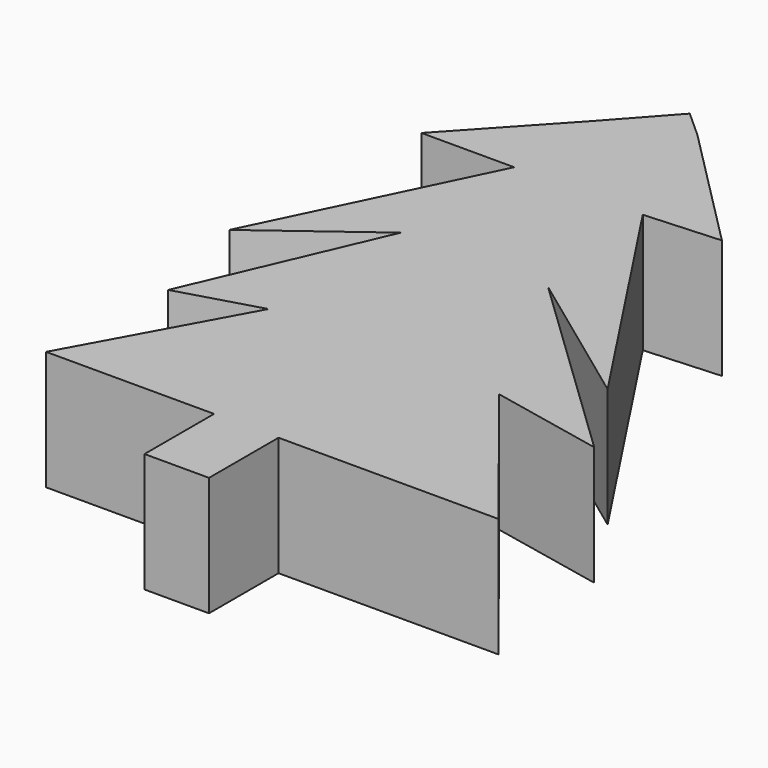
from build123d import *

# Parameters (mm, degrees)
F1_DEPTH = 25.4


with BuildPart() as f1:
    # F0 (on Top) → F1 (new body)
    with BuildSketch(Plane.XY):
        Polygon((0, 18.510289), (0, 0), (13.733758, 0), (13.733758, 18.510289), (60.54344, 18.510289), (32.620355, 53.653721), (56.884825, 48.607584), (14.831842, 88.87808), (45.534682, 66.352531), (10.864723, 119.050354), (26.92808, 120.041341), (0, 147.173456), (-5.780557, 152.371645), (-16.521243, 140.427649), (-36.274508, 119.050354), (-16.521243, 119.050354), (-39.406329, 71.83063), (-16.521243, 88.87808), (-33.845898, 48.607584), (-16.521243, 53.653721), (-35.767029, 18.510289), align=None)
    extrude(amount=F1_DEPTH)


solid = f1.part
